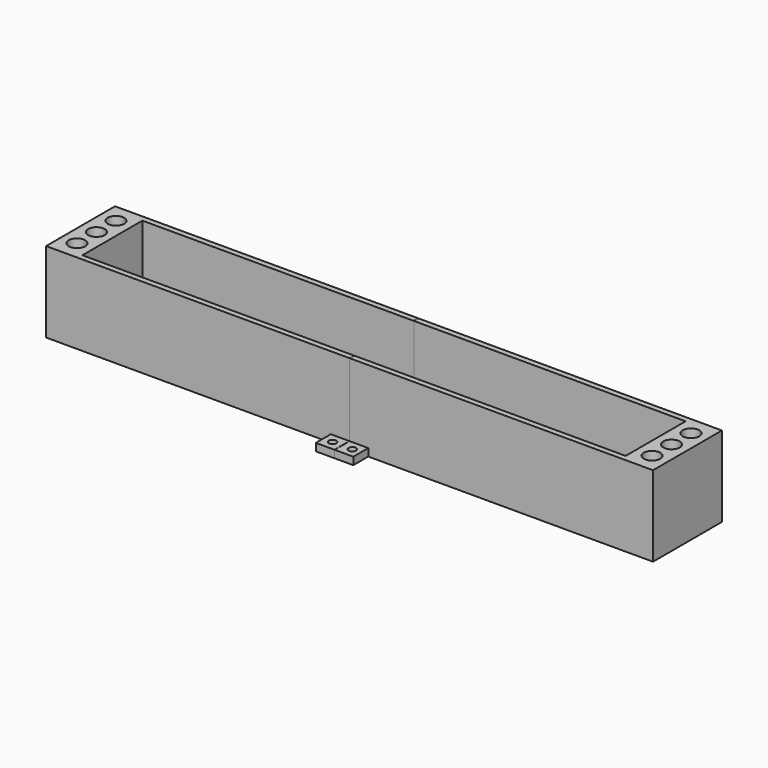
from build123d import *

# Parameters (mm, degrees)
F0_W      = 296
F0_H      = 46
F1_DEPTH  = 43
F2_W      = 290
F2_H      = 40
F3_DEPTH  = 40
F4_W      = 46
F4_H      = 43
F5_DEPTH  = 14
F6_R      = 4.4
F7_DEPTH  = 43
F9_W      = 20
F9_H      = 4
F10_DEPTH = 10
F11_R     = 2
F12_DEPTH = 4
F14_W     = 0.1
F14_H     = 66
F15_DEPTH = 43


with BuildPart() as f1:
    # F0 (on Top) → F1 (new body)
    with BuildSketch(Plane.XY):
        Rectangle(F0_W, F0_H)
    extrude(amount=F1_DEPTH)

    # F2 (on face) → F3 (cut)
    with BuildSketch(Plane.XY.offset(43)):
        Rectangle(F2_W, F2_H)
    extrude(amount=-F3_DEPTH, mode=Mode.SUBTRACT)

    # F4 (on face) → F5 (join)
    with BuildSketch(Plane(origin=(-148, 0, 0), x_dir=(0, -1, 0), z_dir=(-1, 0, 0))):
        with Locations((0, 21.5)):
            Rectangle(F4_W, F4_H)
    extrude(amount=F5_DEPTH)

    # F6 (on face) → F7 (cut)
    with BuildSketch(Plane.XY.offset(43)):
        with Locations((-153.5, 0)):
            Circle(F6_R)
        with Locations((-153.5, 13)):
            Circle(F6_R)
        with Locations((-153.5, -13)):
            Circle(F6_R)
    extrude(amount=-F7_DEPTH, mode=Mode.SUBTRACT)

    # F8: F1 across plane


with BuildPart() as f1_1:
    add(f1.part)
    add(f1.part.mirror(Plane.YZ))

    # F9 (on face) → F10 (join)
    with BuildSketch(Plane.XZ.offset(23)):
        with Locations((0, 2)):
            Rectangle(F9_W, F9_H)
    extrude(amount=F10_DEPTH)

    # F11 (on face) → F12 (cut)
    with BuildSketch(Plane(origin=(0, 0, 0), x_dir=(1, 0, 0), z_dir=(0, 0, -1))):
        with Locations((-5, 28)):
            Circle(F11_R)
        with Locations((5.500437, 28)):
            Circle(F11_R)
    extrude(amount=-F12_DEPTH, mode=Mode.SUBTRACT)

    # F13: F1 across plane


with BuildPart() as f1_2:
    add(f1_1.part)
    add(f1_1.part.mirror(Plane.XZ))

    # F14 (on face) → F15 (cut)
    with BuildSketch(Plane(origin=(0, 0, 0), x_dir=(1, 0, 0), z_dir=(0, 0, -1))):
        Rectangle(F14_W, F14_H)
    extrude(amount=-F15_DEPTH, mode=Mode.SUBTRACT)


solid = f1_2.part
